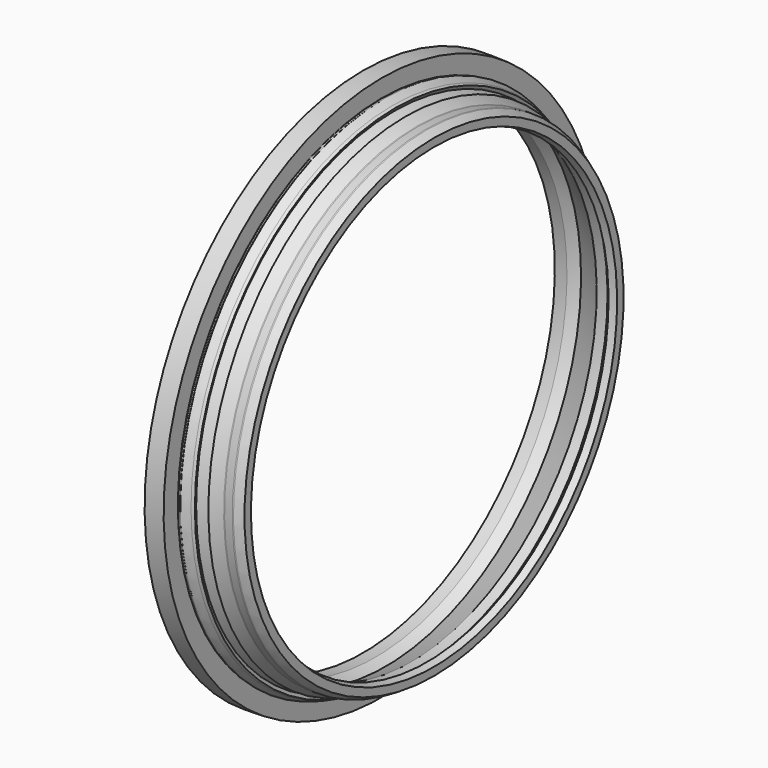
from build123d import *


with BuildPart() as f1:
    # F0 (on Front) → F1 (revolve)
    with BuildSketch(Plane.XZ):
        with BuildLine():
            Line((-12.820962, 242.57), (-7.355597, 237.104635))
            Line((-7.355597, 237.104635), (0, 239.075561))
            Line((0, 239.075561), (0, 240.829671))
            Line((0, 240.829671), (0, 245.209498))
            Line((0, 245.209498), (0, 246.18163))
            Line((0, 246.18163), (0, 247.46631))
            ThreePointArc((0, 247.46631), (-3.923627, 249.786079), (-7.92797, 251.963556))
            ThreePointArc((-7.92797, 251.963556), (-8.440309, 252.156449), (-8.983817, 252.222))
            Line((-8.983817, 252.222), (-16.967452, 252.222))
            ThreePointArc((-16.967452, 252.222), (-17.423207, 252.267892), (-17.860664, 252.403726))
            Line((-17.860664, 252.403726), (-29.76303, 257.45598))
            Line((-29.76303, 257.45598), (-31.251715, 253.948857))
            Line((-31.251715, 253.948857), (-41.773086, 258.414914))
            Line((-41.773086, 258.414914), (-40.2844, 261.922037))
            Line((-40.2844, 261.922037), (-43.2816, 263.194273))
            ThreePointArc((-43.2816, 263.194273), (-47.440371, 265.06445), (-51.6636, 266.784125))
            Line((-51.6636, 266.784125), (-52.299364, 266.148361))
            ThreePointArc((-52.299364, 266.148361), (-52.391699, 266.086665), (-52.500615, 266.065))
            Line((-52.500615, 266.065), (-54.325387, 266.065))
            ThreePointArc((-54.325387, 266.065), (-54.526639, 266.148361), (-54.61, 266.349613))
            Line((-54.61, 266.349613), (-54.61, 284.802049))
            Line((-54.61, 284.802049), (-74.180059, 285.188049))
            Line((-74.180059, 285.188049), (-74.180059, 250.422508))
            Line((-74.180059, 250.422508), (-61.449014, 250.422508))
            Line((-61.449014, 250.422508), (-50.676592, 255.319059))
            Line((-50.676592, 255.319059), (-24.13, 242.57))
            Line((-24.13, 242.57), (-13.944356, 242.57))
            Line((-13.944356, 242.57), (-12.820962, 242.57))
        make_face()
    revolve(axis=Axis((15.058352, 0, 0), (1, 0, 0)))


solid = f1.part
